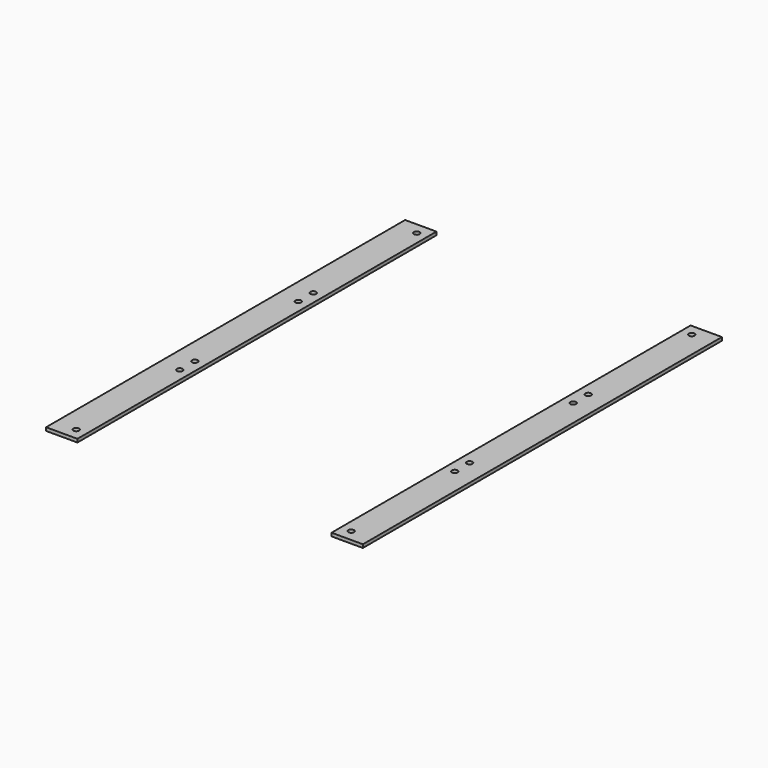
from build123d import *

# Parameters (mm, degrees)
F0_W     = 30.15
F0_H     = 431.8
F0_R     = 2.75
F1_DEPTH = 3.175


with BuildPart() as f1:
    # F0 (on Top) → F1 (new body)
    with BuildSketch(Plane.XY):
        with Locations((-329.165695, 31.435187)):
            Rectangle(F0_W, F0_H)
        with Locations((-324.090695, -173.314813)):
            Circle(F0_R, mode=Mode.SUBTRACT)
        with Locations((-324.090695, -48.814813)):
            Circle(F0_R, mode=Mode.SUBTRACT)
        with Locations((-324.090695, -30.814813)):
            Circle(F0_R, mode=Mode.SUBTRACT)
        with Locations((-324.090695, 93.685187)):
            Circle(F0_R, mode=Mode.SUBTRACT)
        with Locations((-324.090695, 111.685187)):
            Circle(F0_R, mode=Mode.SUBTRACT)
        with Locations((-324.090695, 236.185187)):
            Circle(F0_R, mode=Mode.SUBTRACT)
        with Locations((-54.515695, 31.435187)):
            Rectangle(F0_W, F0_H)
        with Locations((-59.590695, -173.314813)):
            Circle(F0_R, mode=Mode.SUBTRACT)
        with Locations((-59.590695, -48.814813)):
            Circle(F0_R, mode=Mode.SUBTRACT)
        with Locations((-59.590695, -30.814813)):
            Circle(F0_R, mode=Mode.SUBTRACT)
        with Locations((-59.590695, 93.685187)):
            Circle(F0_R, mode=Mode.SUBTRACT)
        with Locations((-59.590695, 111.685187)):
            Circle(F0_R, mode=Mode.SUBTRACT)
        with Locations((-59.590695, 236.185187)):
            Circle(F0_R, mode=Mode.SUBTRACT)
    extrude(amount=F1_DEPTH)


solid = f1.part
